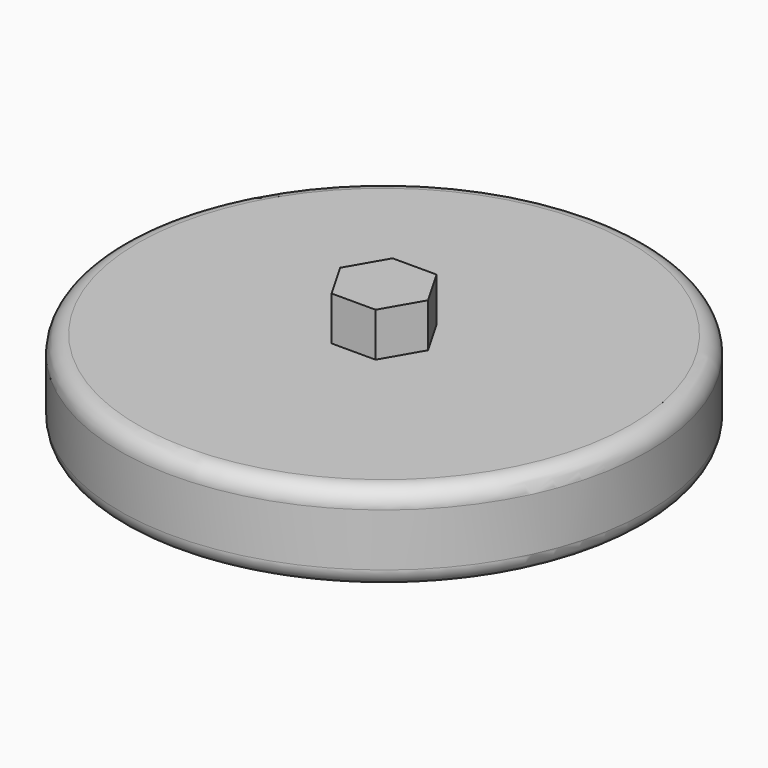
from build123d import *

# Parameters (mm, degrees)
F0_R     = 76.2
F1_DEPTH = 25.4
F2_R     = 5.08
F4_DEPTH = 12.7


with BuildPart() as f1:
    # F0 (on Top) → F1 (new body)
    with BuildSketch(Plane.XY):
        Circle(F0_R)
    extrude(amount=F1_DEPTH)

    # F2
    f2_edges = [f1.edges().sort_by_distance(p)[0] for p in [
        (-76.2, 0, 25.4),
        (-76.2, 0, 0),
    ]]
    fillet(f2_edges, radius=F2_R)

    # F3 (on face) → F4 (join)
    with BuildSketch(Plane.XY.offset(25.4)):
        Polygon((-6.35, -10.998523), (6.35, -10.998523), (12.7, 0), (6.35, 10.998523), (-6.35, 10.998523), (-12.7, 0), align=None)
    extrude(amount=F4_DEPTH)


solid = f1.part
